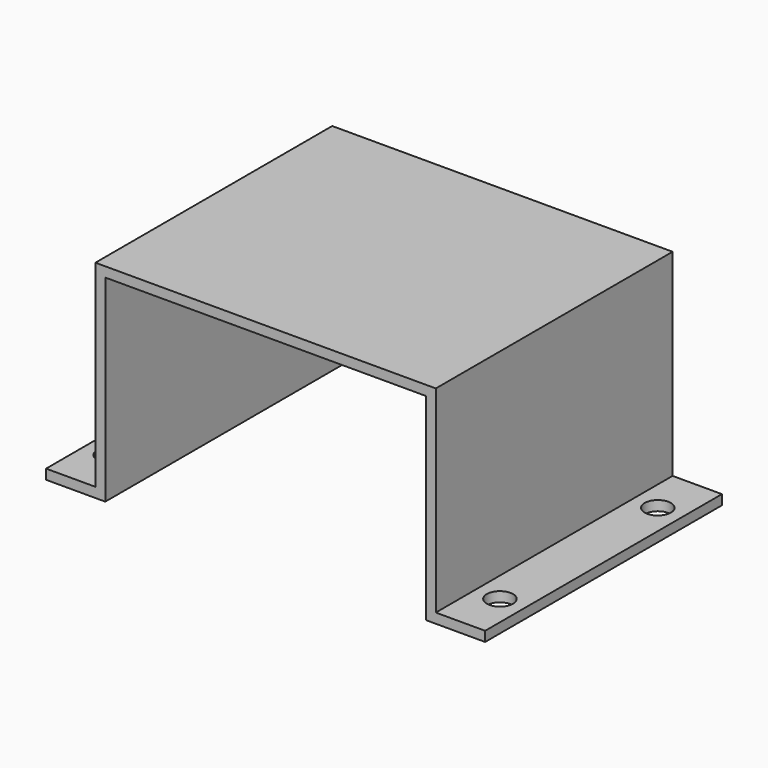
from build123d import *

# Parameters (mm, degrees)
F1_DEPTH = 76.2
F3_D     = 6.7564


with BuildPart() as f1:
    # F0 (on Front) → F1 (new body)
    with BuildSketch(Plane.XZ):
        Polygon((0, 2.54), (0, 0), (15.24, 0), (15.24, 50.8), (97.79, 50.8), (97.79, 0), (113.03, 0), (113.03, 2.54), (100.33, 2.54), (100.33, 53.34), (12.7, 53.34), (12.7, 2.54), align=None)
    extrude(amount=-F1_DEPTH)

    # F3 (through all)
    with Locations(Plane.XY.offset(2.54)):
        with Locations((6.35, 63.5), (6.35, 12.7), (106.68, 12.7), (106.68, 63.5)):
            Hole(F3_D / 2)


solid = f1.part
